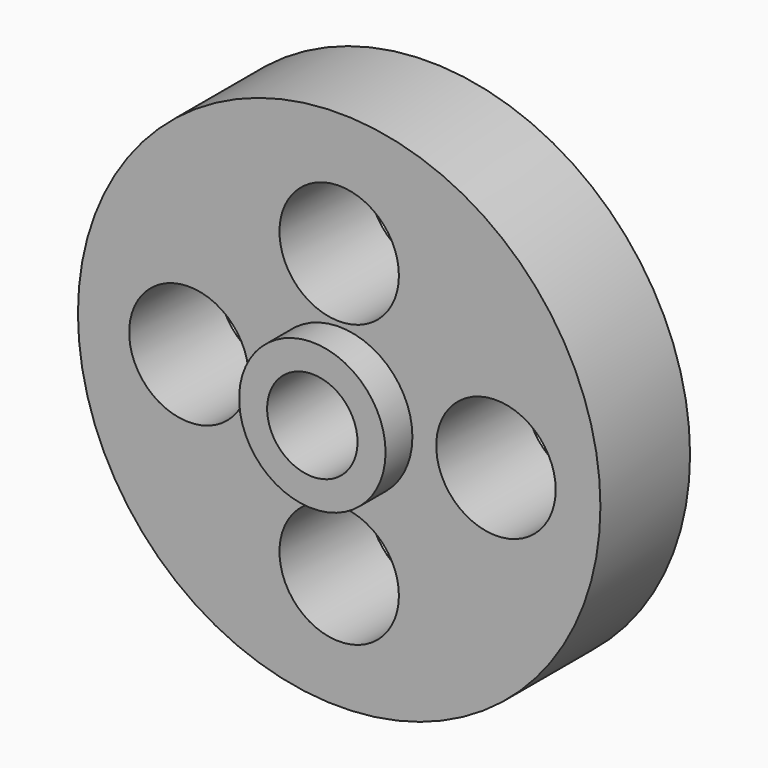
from build123d import *

# Parameters (mm, degrees)
F0_R     = 35.0012
F0_R_2   = 29.9974
F1_DEPTH = 15.0114
F0_R_3   = 8.001
F0_R_4   = 9.810431
F2_DEPTH = 15.0114
F0_R_5   = 6.055532
F3_DEPTH = 19.5072


with BuildPart() as f1:
    # F0 (on Front) → F1 (new body)
    with BuildSketch(Plane.XZ):
        Circle(F0_R)
        Circle(F0_R_2, mode=Mode.SUBTRACT)
    extrude(amount=F1_DEPTH)

    # F0 (on Front) → F2 (join)
    with BuildSketch(Plane.XZ):
        Circle(F0_R_2)
        with Locations((0, -19.317703)):
            Circle(F0_R_3, mode=Mode.SUBTRACT)
        with Locations((-20.137208, 0)):
            Circle(F0_R_3, mode=Mode.SUBTRACT)
        Circle(F0_R_4, mode=Mode.SUBTRACT)
        with Locations((21.005314, 0)):
            Circle(F0_R_3, mode=Mode.SUBTRACT)
        with Locations((0, 18.436611)):
            Circle(F0_R_3, mode=Mode.SUBTRACT)
    extrude(amount=F2_DEPTH)

    # F0 (on Front) → F3 (join)
    with BuildSketch(Plane.XZ):
        Circle(F0_R_4)
        Circle(F0_R_5, mode=Mode.SUBTRACT)
    extrude(amount=F3_DEPTH)


solid = f1.part
